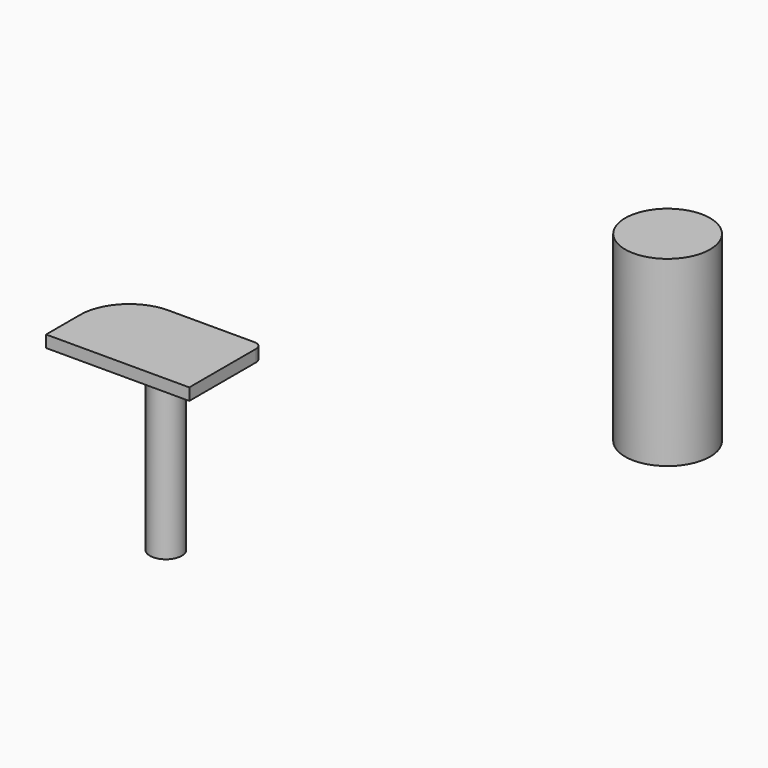
from build123d import *

# Parameters (mm, degrees)
F0_R      = 10.680204
F1_DEPTH  = 5
F3_DEPTH  = 3
F4_R      = 12.348308
F5_R      = 3.99635
F6_DEPTH  = 44.934362
F1_FACE_R = 10.680204
F7_DEPTH  = 40.8618


with BuildPart() as f1:
    # F0 (on Top) → F1 (new body)
    with BuildSketch(Plane.XY):
        with Locations((18.270001, 62.253341)):
            Circle(F0_R)
    extrude(amount=F1_DEPTH)

    # F1_face (on face) → F7 (join)
    with BuildSketch(Plane(origin=(18.270001, 62.253341, 0), x_dir=(1, 0, 0), z_dir=(0, 0, -1))):
        Circle(F1_FACE_R)
    extrude(amount=F7_DEPTH)


with BuildPart() as f3:
    # F2 (on Top) → F3 (new body)
    with BuildSketch(Plane.XY):
        with BuildLine():
            ThreePointArc((-16.646005, -23.382689), (-17.231792, -21.968476), (-18.646005, -21.382689))
            Line((-18.646005, -21.382689), (-52.644692, -21.382689))
            Line((-52.644692, -21.382689), (-52.644692, -44.389367))
            Line((-52.644692, -44.389367), (-16.646005, -44.389367))
            Line((-16.646005, -44.389367), (-16.646005, -23.382689))
        make_face()
    extrude(amount=F3_DEPTH)

    # F4
    f4_edges = [f3.edges().sort_by_distance(p)[0] for p in [
        (-52.644692, -21.382689, 1.5),
    ]]
    fillet(f4_edges, radius=F4_R)

    # F5 (on face) → F6 (join)
    with BuildSketch(Plane.XY.offset(3)):
        with Locations((-30.991316, -33.833347)):
            Circle(F5_R)
    extrude(amount=-F6_DEPTH)


solid = Compound([f1.part, f3.part])
